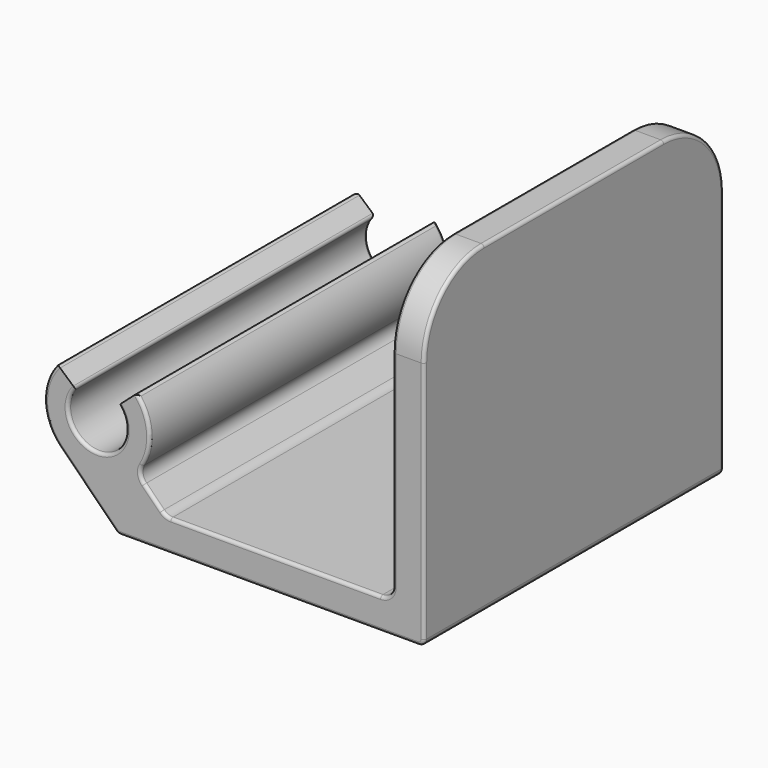
from build123d import *

# Parameters (mm, degrees)
F1_DEPTH = 30
F2_R     = 6
F3_R     = 1
F4_R     = 0.5
F5_R     = 0.25


with BuildPart() as f1:
    # F0 (on Front) → F1 (new body)
    with BuildSketch(Plane.XZ):
        with BuildLine():
            ThreePointArc((1.737687, 1.54469), (0, -2.325), (-1.737687, 1.54469))
            Line((-1.737687, 1.54469), (-3.157733, 2.807018))
            ThreePointArc((-3.157733, 2.807018), (-4.223178, -0.12405), (-2.987526, -2.987526))
            Line((-2.987526, -2.987526), (1.624948, -7.6))
            Line((1.624948, -7.6), (26.225, -7.6))
            Line((26.225, -7.6), (26.225, 18.4))
            Line((26.225, 18.4), (23.725, 18.4))
            Line((23.725, 18.4), (23.725, -5.1))
            Line((23.725, -5.1), (5.488909, -5.1))
            Line((5.488909, -5.1), (3.175645, -2.786737))
            ThreePointArc((3.175645, -2.786737), (4.224978, 0.013529), (3.157733, 2.807018))
            Line((3.157733, 2.807018), (1.737687, 1.54469))
        make_face()
    extrude(amount=F1_DEPTH)

    # F2
    f2_edges = [f1.edges().sort_by_distance(p)[0] for p in [
        (24.975, -30, 18.4),
        (24.975, 0, 18.4),
    ]]
    fillet(f2_edges, radius=F2_R)

    # F3
    f3_edges = [f1.edges().sort_by_distance(p)[0] for p in [
        (23.725, -15, -5.1),
        (5.488909, -15, -5.1),
        (3.175645, -15, -2.786737),
    ]]
    fillet(f3_edges, radius=F3_R)

    # F4
    f4_edges = [f1.edges().sort_by_distance(p)[0] for p in [
        (26.225, -15, -7.6),
        (1.624948, -15, -7.6),
    ]]
    fillet(f4_edges, radius=F4_R)

    # F5
    f5_edges = [f1.edges().sort_by_distance(p)[0] for p in [
        (-1.737687, -15, 1.54469),
        (-3.157733, -15, 2.807018),
        (1.737687, -15, 1.54469),
        (3.157733, -15, 2.807018),
        (4.206392, -30, 0.396098),
        (-4.223178, -30, -0.12405),
        (0, -30, -2.325),
        (0, 0, -2.325),
    ]]
    fillet(f5_edges, radius=F5_R)


solid = f1.part
